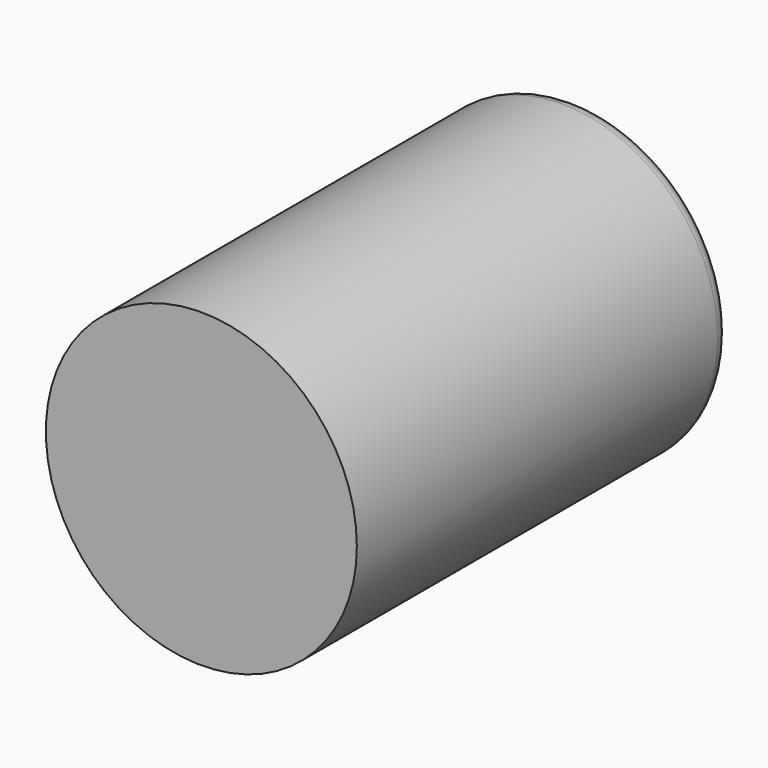
from build123d import *

# Parameters (mm, degrees)
F0_R     = 5
F1_DEPTH = 15
F2_R     = 0.5
F3_R     = 2
F4_DEPTH = 7.5


with BuildPart() as f1:
    # F0 (on Front) → F1 (new body)
    with BuildSketch(Plane.XZ):
        Circle(F0_R)
    extrude(amount=F1_DEPTH)

    # F2
    f2_edges = [f1.edges().sort_by_distance(p)[0] for p in [
        (-5, 0, 0),
    ]]
    fillet(f2_edges, radius=F2_R)

    # F3 (on face) → F4 (cut)
    with BuildSketch(Plane(origin=(0, 0, 0), x_dir=(-1, 0, 0), z_dir=(0, 1, 0))):
        Circle(F3_R)
    extrude(amount=-F4_DEPTH, mode=Mode.SUBTRACT)


solid = f1.part
